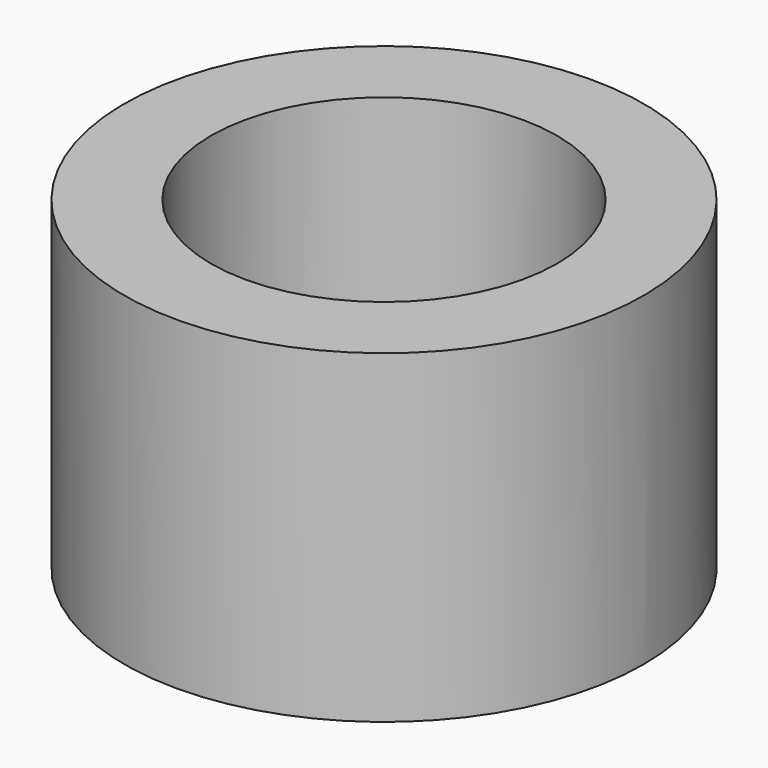
from build123d import *

# Parameters (mm, degrees)
CYLINDER024_R               = 5
CYLINDER024_DEPTH           = 2.5
CYLINDER019_R               = 12
CYLINDER019_DEPTH           = 2.5
CYLINDER027_R               = 8
CYLINDER027_DEPTH           = 12.5
CYLINDER026_R               = 12
CYLINDER026_DEPTH           = 12.5
CYLINDER026_PLACEMENT_ANGLE = 1


with BuildPart() as largeplughole:
    # Cylinder024 → Cylinder024 (new body)
    with BuildSketch(Plane.XY):
        Circle(CYLINDER024_R)
    extrude(amount=CYLINDER024_DEPTH)


with BuildPart() as largeplugbase001:
    # Cylinder019 → Cylinder019 (new body)
    with BuildSketch(Plane.XY):
        Circle(CYLINDER019_R)
    extrude(amount=CYLINDER019_DEPTH)

    # Cut008: cut LargePlugHole
    add(largeplughole.part, mode=Mode.SUBTRACT)


with BuildPart() as largeplugwallhole:
    # Cylinder027 → Cylinder027 (new body)
    with BuildSketch(Plane.XY.offset(2.5)):
        Circle(CYLINDER027_R)
    extrude(amount=CYLINDER027_DEPTH)


with BuildPart() as obj1:
    # Cylinder026 → Cylinder026 (new body)
    with BuildSketch(Plane.XY):
        Circle(CYLINDER026_R)
    extrude(amount=CYLINDER026_DEPTH)


with BuildPart() as obj1_1:
    # Cylinder026 placement: moved
    add(obj1.part.moved(Location((0, 0, 2.5))).rotate(Axis((0, 0, 2.5), (0, 0, 1)), CYLINDER026_PLACEMENT_ANGLE))

    # Cut007: cut LargePlugWallHole
    add(largeplugwallhole.part, mode=Mode.SUBTRACT)

    # Fusion027: union LargePlugBase001
    add(largeplugbase001.part)


with BuildPart() as obj1_2:
    # Fusion027 placement: moved
    add(obj1_1.part.moved(Location((47, 0, -2.5))))


solid = obj1_2.part
